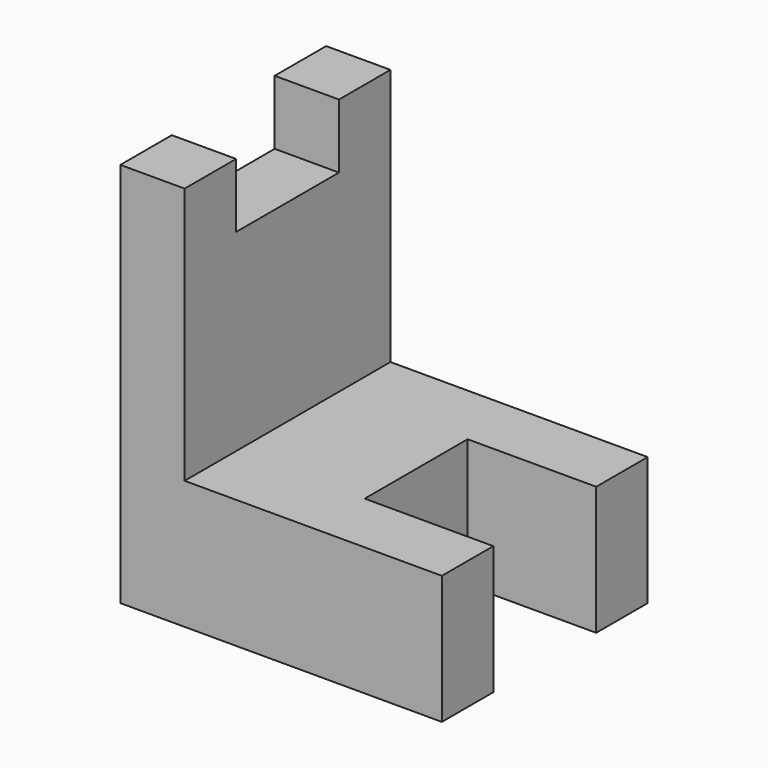
from build123d import *

# Parameters (mm, degrees)
F1_DEPTH = 12.7
F3_DEPTH = 6.35


with BuildPart() as f1:
    # F0 (on Top) → F1 (new body)
    with BuildSketch(Plane.XY):
        Polygon((0, 25.4), (0, 0), (31.75, 0), (31.75, 6.35), (19.05, 6.35), (19.05, 19.05), (31.75, 19.05), (31.75, 25.4), align=None)
    extrude(amount=-F1_DEPTH)

    # F2 (on Right) → F3 (join)
    with BuildSketch(Plane.YZ):
        Polygon((0, 25.4), (0, 0), (25.4, 0), (25.4, 25.4), (19.05, 25.4), (19.05, 19.05), (6.35, 19.05), (6.35, 25.4), align=None)
    extrude(amount=F3_DEPTH)


solid = f1.part
